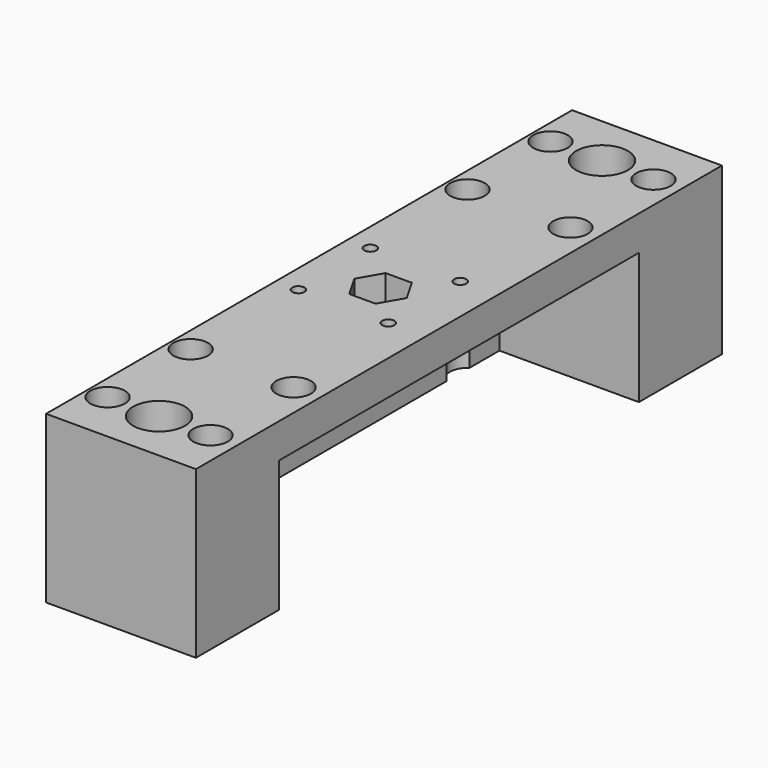
from build123d import *

# Parameters (mm, degrees)
F0_R     = 5
F0_R_2   = 7.5
F0_R_3   = 1.75
F2_DEPTH = 48
F3_DEPTH = 48
F4_W     = 130
F4_H     = 38
F5_DEPTH = 48.3
F6_W     = 8
F6_H     = 190
F7_DEPTH = 50


with BuildPart() as f2:
    # F0 (on Top) → F2 (new body)
    with BuildSketch(Plane.XY):
        Polygon((-20.6482383256, 95), (-20.6482383256, 17.5979303911), (-20.6482383256, 0), (-20.6482383256, -17.5979303911), (-20.6482383256, -95), (30.6482383256, -95), (30.6482383256, 0), (30.6482383256, 95), align=None)
        with Locations((-14.875, -80)):
            Circle(F0_R, mode=Mode.SUBTRACT)
        with Locations((-14.875, -50)):
            Circle(F0_R, mode=Mode.SUBTRACT)
        with Locations((0, -80)):
            Circle(F0_R_2, mode=Mode.SUBTRACT)
        with Locations((-14.0701553242, -12.1067194764)):
            Circle(F0_R_3, mode=Mode.SUBTRACT)
        with Locations((14.875, -80)):
            Circle(F0_R, mode=Mode.SUBTRACT)
        with Locations((14.875, -50)):
            Circle(F0_R, mode=Mode.SUBTRACT)
        with Locations((11.9298446758, -12.1067194764)):
            Circle(F0_R_3, mode=Mode.SUBTRACT)
        with Locations((-14.0701553242, 13.8932805236)):
            Circle(F0_R_3, mode=Mode.SUBTRACT)
        with Locations((-14.875, 50)):
            Circle(F0_R, mode=Mode.SUBTRACT)
        with Locations((-14.875, 80)):
            Circle(F0_R, mode=Mode.SUBTRACT)
        with Locations((0, 80)):
            Circle(F0_R_2, mode=Mode.SUBTRACT)
        with Locations((11.9298446758, 13.8932805236)):
            Circle(F0_R_3, mode=Mode.SUBTRACT)
        with Locations((14.875, 50)):
            Circle(F0_R, mode=Mode.SUBTRACT)
        with Locations((14.875, 80)):
            Circle(F0_R, mode=Mode.SUBTRACT)
    extrude(amount=F2_DEPTH)

    # F1 (on face) → F3 (cut)
    with BuildSketch(Plane.XY):
        Polygon((3.7816442632, 6.55), (-3.7816442632, 6.55), (-7.5632885264, 0), (-3.7816442632, -6.55), (3.7816442632, -6.55), (7.5632885264, 0), align=None)
    extrude(amount=F3_DEPTH, mode=Mode.SUBTRACT)

    # F4 (on face) → F5 (cut)
    with BuildSketch(Plane.YZ.offset(30.6482383256)):
        with Locations((0, 19)):
            Rectangle(F4_W, F4_H)
    extrude(amount=-F5_DEPTH, mode=Mode.SUBTRACT)

    # F6 (on face) → F7 (cut)
    with BuildSketch(Plane.XY.offset(48)):
        with Locations((26.6482383256, 0)):
            Rectangle(F6_W, F6_H)
    extrude(amount=-F7_DEPTH, mode=Mode.SUBTRACT)


solid = f2.part
